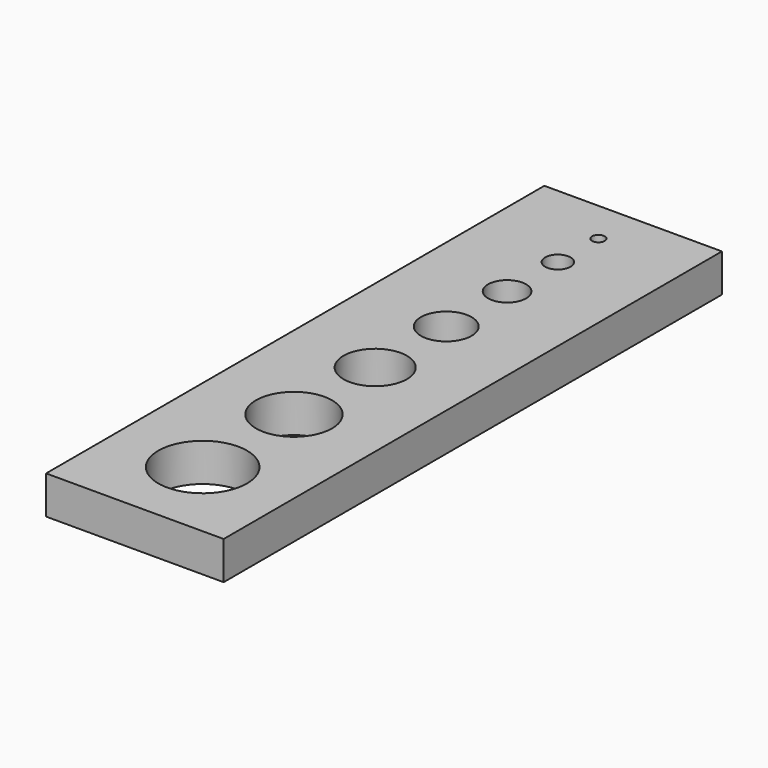
from build123d import *

# Parameters (mm, degrees)
F0_W     = 14
F0_H     = 49.101681
F0_R     = 3.5
F0_R_2   = 3
F0_R_3   = 2.5
F0_R_4   = 2
F0_R_5   = 1.5
F0_R_6   = 1
F0_R_7   = 0.5
F1_DEPTH = 3


with BuildPart() as f1:
    # F0 (on Top) → F1 (new body)
    with BuildSketch(Plane.XY):
        with Locations((0, -8.822086)):
            Rectangle(F0_W, F0_H)
        with Locations((0, -26.690952)):
            Circle(F0_R, mode=Mode.SUBTRACT)
        with Locations((0, -17.690952)):
            Circle(F0_R_2, mode=Mode.SUBTRACT)
        with Locations((0, -9.690952)):
            Circle(F0_R_3, mode=Mode.SUBTRACT)
        with Locations((0, -2.690952)):
            Circle(F0_R_4, mode=Mode.SUBTRACT)
        with Locations((0, 3.309048)):
            Circle(F0_R_5, mode=Mode.SUBTRACT)
        with Locations((0, 8.309048)):
            Circle(F0_R_6, mode=Mode.SUBTRACT)
        with Locations((0, 12.309048)):
            Circle(F0_R_7, mode=Mode.SUBTRACT)
    extrude(amount=F1_DEPTH)


solid = f1.part
